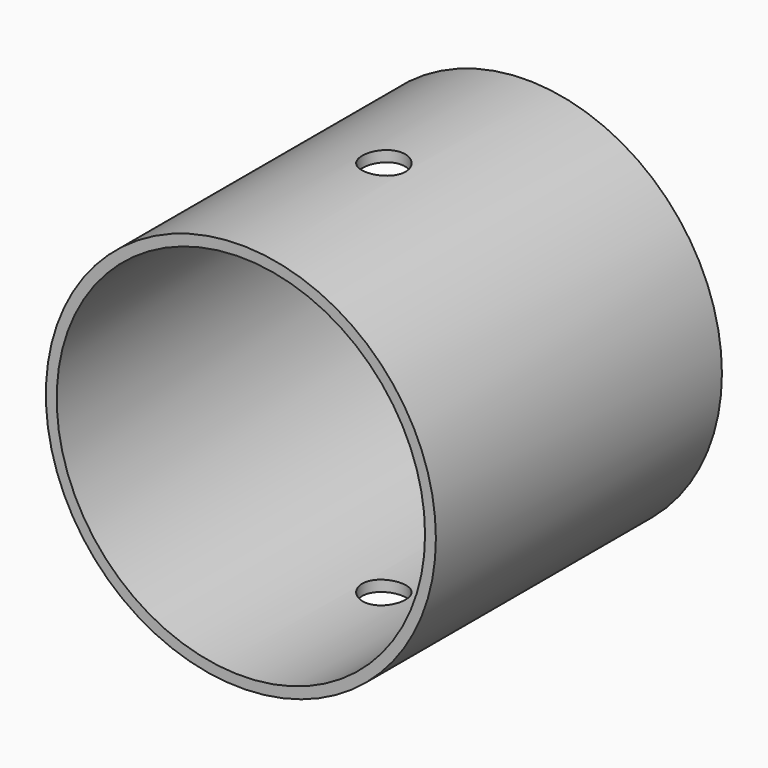
from build123d import *

# Parameters (mm, degrees)
F0_R     = 18
F0_R_2   = 17
F1_DEPTH = 16.5
F2_R     = 2
F3_DEPTH = 19


with BuildPart() as f1:
    # F0 (on Front) → F1 (new body, symmetric)
    with BuildSketch(Plane.XZ):
        Circle(F0_R)
        Circle(F0_R_2, mode=Mode.SUBTRACT)
    extrude(amount=F1_DEPTH, both=True)

    # F2 (on Top) → F3 (cut, symmetric)
    with BuildSketch(Plane.XY):
        Circle(F2_R)
    extrude(amount=F3_DEPTH, both=True, mode=Mode.SUBTRACT)


solid = f1.part
